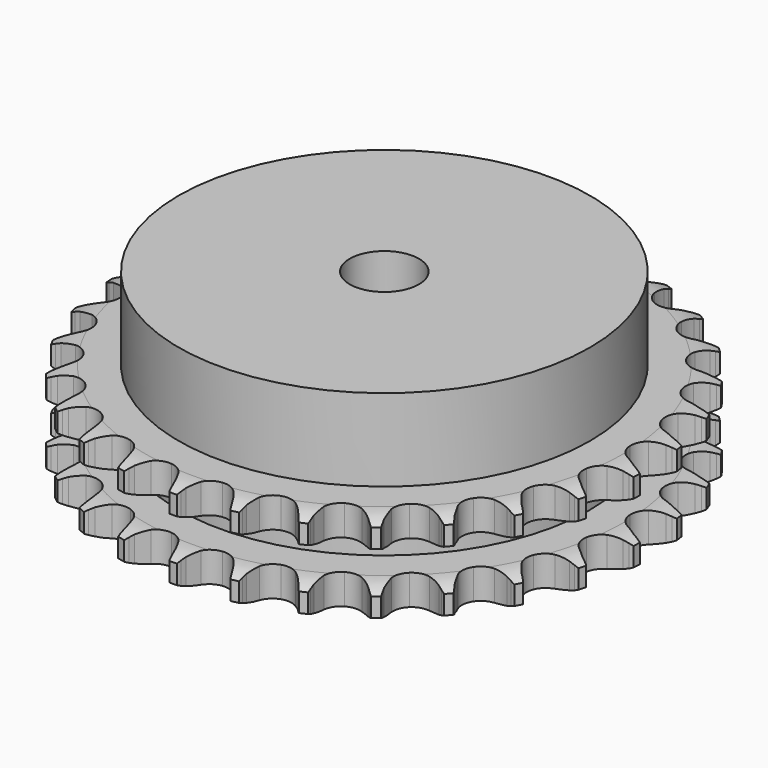
from build123d import *

# Parameters (mm, degrees)
PAD_DEPTH         = 21
SKETCH001_R       = 47.5
PAD001_DEPTH      = 40
SKETCH002_R       = 8
POCKET_DEPTH      = 0.001
POCKET_DEPTH_BACK = 40.001


with BuildPart() as part:
    # Sprocket → Pad (new body)
    with BuildSketch(Plane.XY):
        with BuildLine():
            ThreePointArc((-6.761019, 62.166543), (-5.956489, 61.115135), (-5.366296, 59.930062))
            Line((-5.366296, 59.930062), (-4.951457, 58.849368))
            ThreePointArc((-4.951457, 58.849368), (-4.292426, 57.437183), (-3.442485, 56.130972))
            ThreePointArc((-3.442485, 56.130972), (-1.922741, 54.869332), (0, 54.417198))
            ThreePointArc((0, 54.417198), (1.922741, 54.869332), (3.442485, 56.130972))
            ThreePointArc((3.442485, 56.130972), (4.292426, 57.437183), (4.951457, 58.849368))
            Line((4.951457, 58.849368), (5.366296, 59.930062))
            ThreePointArc((5.366296, 59.930062), (5.956489, 61.115135), (6.761019, 62.166543))
            ThreePointArc((6.761019, 62.166543), (7.320718, 60.966766), (7.642357, 59.682525))
            Line((7.642357, 59.682525), (7.81518, 58.53792))
            ThreePointArc((7.81518, 58.53792), (8.155225, 57.017078), (8.704498, 55.558693))
            ThreePointArc((8.704498, 55.558693), (9.917497, 53.99985), (11.698089, 53.144954))
            ThreePointArc((11.698089, 53.144954), (13.673073, 53.173186), (15.428502, 54.078628))
            Line((15.428502, 54.078628), (17.486569, 56.409086))
            ThreePointArc((17.486569, 56.409086), (17.792719, 56.900509), (18.124027, 57.375335))
            ThreePointArc((18.124027, 57.375335), (18.955177, 58.405828), (19.966919, 59.259704))
            ThreePointArc((19.966919, 59.259704), (20.255616, 57.967659), (20.293661, 56.6443))
            Line((20.293661, 56.6443), (20.216388, 55.489303))
            ThreePointArc((20.216388, 55.489303), (20.221546, 53.930919), (20.444468, 52.388552))
            ThreePointArc((20.444468, 52.388552), (21.294003, 50.605395), (22.849188, 49.387711))
            ThreePointArc((22.849188, 49.387711), (24.784067, 48.99072), (26.693098, 49.497628))
            Line((26.693098, 49.497628), (29.204029, 51.331177))
            ThreePointArc((29.204029, 51.331177), (29.608662, 51.745298), (30.034298, 52.137802))
            ThreePointArc((30.034298, 52.137802), (31.067542, 52.96553), (32.239188, 53.581948))
            ThreePointArc((32.239188, 53.581948), (32.243384, 52.258049), (31.996057, 50.95745))
            Line((31.996057, 50.95745), (31.6723, 49.846068))
            ThreePointArc((31.6723, 49.846068), (31.342331, 48.323009), (31.228478, 46.768781))
            ThreePointArc((31.228478, 46.768781), (31.674825, 44.844688), (32.931885, 43.321154))
            ThreePointArc((32.931885, 43.321154), (34.736186, 42.517502), (36.709555, 42.602174))
            Line((36.709555, 42.602174), (39.555941, 43.85308))
            ThreePointArc((39.555941, 43.85308), (40.040138, 44.170535), (40.540199, 44.462363))
            ThreePointArc((40.540199, 44.462363), (41.727223, 45.048622), (43.003989, 45.398759))
            ThreePointArc((43.003989, 45.398759), (42.723488, 44.10491), (42.202353, 42.887887))
            Line((42.202353, 42.887887), (41.64725, 41.872086))
            ThreePointArc((41.64725, 41.872086), (40.997583, 40.455569), (40.552279, 38.962153))
            ThreePointArc((40.552279, 38.962153), (40.574567, 36.987093), (41.474723, 35.228948))
            ThreePointArc((41.474723, 35.228948), (43.064079, 34.056213), (45.009514, 33.714689))
            Line((45.009514, 33.714689), (48.058261, 34.324462))
            ThreePointArc((48.058261, 34.324462), (48.599381, 34.530406), (49.150485, 34.707913))
            ThreePointArc((49.150485, 34.707913), (50.435786, 35.02529), (51.757971, 35.092775))
            ThreePointArc((51.757971, 35.092775), (51.205888, 33.889475), (50.435313, 32.812934))
            Line((50.435313, 32.812934), (49.674822, 31.940212))
            ThreePointArc((49.674822, 31.940212), (48.735834, 30.696472), (47.9799, 29.333698))
            ThreePointArc((47.9799, 29.333698), (47.577088, 27.400023), (48.07825, 25.489475))
            ThreePointArc((48.07825, 25.489475), (49.378344, 24.002494), (51.204879, 23.250744))
            Line((51.204879, 23.250744), (54.31343, 23.190869))
            ThreePointArc((54.31343, 23.190869), (54.886171, 23.275674), (55.46255, 23.33056))
            ThreePointArc((55.46255, 23.33056), (56.786028, 23.364215), (58.091808, 23.145892))
            ThreePointArc((58.091808, 23.145892), (57.293958, 22.089405), (56.309974, 21.203684))
            Line((56.309974, 21.203684), (55.379653, 20.51485))
            ThreePointArc((55.379653, 20.51485), (54.195252, 19.502042), (53.164035, 18.333632))
            ThreePointArc((53.164035, 18.333632), (52.354957, 16.531758), (52.433691, 14.558143))
            ThreePointArc((52.433691, 14.558143), (53.383732, 12.826445), (55.00596, 11.699619))
            Line((55.00596, 11.699619), (58.028963, 10.972898))
            ThreePointArc((58.028963, 10.972898), (58.606545, 10.932597), (59.181247, 10.862295))
            ThreePointArc((59.181247, 10.862295), (60.481017, 10.610656), (61.709336, 10.116732))
            ThreePointArc((61.709336, 10.116732), (60.703027, 9.25646), (59.551644, 8.602974))
            Line((59.551644, 8.602974), (58.494994, 8.130235))
            ThreePointArc((58.494994, 8.130235), (57.120559, 7.395718), (55.862278, 6.476306))
            ThreePointArc((55.862278, 6.476306), (54.684767, 4.890487), (54.33739, 2.946088))
            ThreePointArc((54.33739, 2.946088), (54.892957, 1.050645), (56.235023, -0.398567))
            Line((56.235023, -0.398567), (59.031127, -1.758154))
            ThreePointArc((59.031127, -1.758154), (59.586542, -1.921675), (60.132694, -2.113878))
            ThreePointArc((60.132694, -2.113878), (61.347982, -2.639046), (62.441404, -3.385475))
            ThreePointArc((62.441404, -3.385475), (61.273689, -4.009307), (60.008744, -4.400002))
            Line((60.008744, -4.400002), (58.875174, -4.63454))
            ThreePointArc((58.875174, -4.63454), (57.374973, -5.056422), (55.948464, -5.683845))
            ThreePointArc((55.948464, -5.683845), (54.457577, -6.979459), (53.700334, -8.803723))
            ThreePointArc((53.700334, -8.803723), (53.835448, -10.774282), (54.834599, -12.478116))
            Line((54.834599, -12.478116), (57.273061, -14.406997))
            ThreePointArc((57.273061, -14.406997), (57.780338, -14.686093), (58.272404, -14.991208))
            ThreePointArc((58.272404, -14.991208), (59.346384, -15.76535), (60.253782, -16.72938))
            ThreePointArc((60.253782, -16.72938), (58.979261, -17.087604), (57.659903, -17.197238))
            Line((57.659903, -17.197238), (56.502416, -17.182609))
            ThreePointArc((56.502416, -17.182609), (54.946597, -17.272129), (53.418561, -17.578226))
            ThreePointArc((53.418561, -17.578226), (51.684012, -18.523052), (50.55231, -20.141881))
            ThreePointArc((50.55231, -20.141881), (50.260653, -22.095415), (50.870171, -23.974203))
            Line((50.870171, -23.974203), (52.83697, -26.382185))
            ThreePointArc((52.83697, -26.382185), (53.27239, -26.763805), (53.687361, -27.167566))
            ThreePointArc((53.687361, -27.167566), (54.569814, -28.154483), (55.24876, -29.291039))
            ThreePointArc((55.24876, -29.291039), (53.927029, -29.366903), (52.614949, -29.190351))
            Line((52.614949, -29.190351), (51.487668, -28.927238))
            ThreePointArc((51.487668, -28.927238), (49.948979, -28.68021), (48.390866, -28.650668))
            ThreePointArc((48.390866, -28.650668), (46.49376, -29.200528), (45.040516, -30.538228))
            ThreePointArc((45.040516, -30.538228), (44.335726, -32.383391), (44.527109, -34.349282))
            Line((44.527109, -34.349282), (45.930281, -37.12377))
            ThreePointArc((45.930281, -37.12377), (46.273484, -37.590071), (46.591957, -38.0736))
            ThreePointArc((46.591957, -38.0736), (47.24162, -39.227144), (47.660367, -40.483081))
            ThreePointArc((47.660367, -40.483081), (46.353229, -40.273038), (45.109778, -39.818556))
            Line((45.109778, -39.818556), (44.065414, -39.319262))
            ThreePointArc((44.065414, -39.319262), (42.615802, -38.747237), (41.100468, -38.383437))
            ThreePointArc((41.100468, -38.383437), (39.129511, -38.51262), (37.422677, -39.50664))
            ThreePointArc((37.422677, -39.50664), (36.337709, -41.157156), (36.10201, -43.118228))
            Line((36.10201, -43.118228), (36.875944, -46.12949))
            ThreePointArc((36.875944, -46.12949), (37.110882, -46.658667), (37.317964, -47.199353))
            ThreePointArc((37.317964, -47.199353), (37.704461, -48.465587), (37.843428, -49.782179))
            ThreePointArc((37.843428, -49.782179), (36.612004, -49.296051), (35.495324, -48.584889))
            Line((35.495324, -48.584889), (34.58271, -47.872761))
            ThreePointArc((34.58271, -47.872761), (33.289958, -47.002485), (31.888257, -46.321439))
            ThreePointArc((31.888257, -46.321439), (29.93561, -46.023905), (28.054996, -46.627766))
            ThreePointArc((28.054996, -46.627766), (26.640582, -48.006458), (25.988821, -49.871012))
            Line((25.988821, -49.871012), (26.097328, -52.978246))
            ThreePointArc((26.097328, -52.978246), (26.213016, -53.545556), (26.299025, -54.118118))
            ThreePointArc((26.299025, -54.118118), (26.404283, -55.437833), (26.256973, -56.753518))
            ThreePointArc((26.256973, -56.753518), (25.158842, -56.014036), (24.221148, -55.079446))
            Line((24.221148, -55.079446), (23.482957, -54.187783))
            ThreePointArc((23.482957, -54.187783), (22.407512, -53.05995), (21.184987, -52.093502))
            ThreePointArc((21.184987, -52.093502), (19.341953, -51.383163), (17.375495, -51.56863))
            ThreePointArc((17.375495, -51.56863), (15.697771, -52.611031), (14.660423, -54.291884))
            Line((14.660423, -54.291884), (14.09843, -57.349798))
            ThreePointArc((14.09843, -57.349798), (14.089458, -57.928714), (14.050373, -58.50638))
            ThreePointArc((14.050373, -58.50638), (13.869471, -59.817868), (13.442771, -61.071125))
            ThreePointArc((13.442771, -61.071125), (12.52928, -60.112866), (11.814418, -58.99855))
            Line((11.814418, -58.99855), (11.285167, -57.969044))
            ThreePointArc((11.285167, -57.969044), (10.477316, -56.636391), (9.491131, -55.429731))
            ThreePointArc((9.491131, -55.429731), (7.843888, -54.339801), (5.883534, -54.098202))
            ThreePointArc((5.883534, -54.098202), (4.020949, -54.755571), (2.64652, -56.174128))
            Line((2.64652, -56.174128), (1.440305, -59.039737))
            ThreePointArc((1.440305, -59.039737), (1.307093, -59.60319), (1.144741, -60.158948))
            ThreePointArc((1.144741, -60.158948), (0.686137, -61.400885), (0, -62.533114))
            ThreePointArc((0, -62.533114), (-0.686137, -61.400885), (-1.144741, -60.158948))
            Line((-1.144741, -60.158948), (-1.440305, -59.039737))
            ThreePointArc((-1.440305, -59.039737), (-1.942788, -57.564577), (-2.64652, -56.174128))
            ThreePointArc((-2.64652, -56.174128), (-4.020949, -54.755571), (-5.883534, -54.098202))
            ThreePointArc((-5.883534, -54.098202), (-7.843888, -54.339801), (-9.491131, -55.429731))
            Line((-9.491131, -55.429731), (-11.285167, -57.969044))
            ThreePointArc((-11.285167, -57.969044), (-11.53639, -58.490687), (-11.814418, -58.99855))
            ThreePointArc((-11.814418, -58.99855), (-12.52928, -60.112866), (-13.442771, -61.071125))
            ThreePointArc((-13.442771, -61.071125), (-13.869471, -59.817868), (-14.050373, -58.50638))
            Line((-14.050373, -58.50638), (-14.09843, -57.349798))
            ThreePointArc((-14.09843, -57.349798), (-14.272049, -55.801107), (-14.660423, -54.291884))
            ThreePointArc((-14.660423, -54.291884), (-15.697771, -52.611031), (-17.375495, -51.56863))
            ThreePointArc((-17.375495, -51.56863), (-19.341953, -51.383163), (-21.184987, -52.093502))
            Line((-21.184987, -52.093502), (-23.482957, -54.187783))
            ThreePointArc((-23.482957, -54.187783), (-23.840444, -54.643225), (-24.221148, -55.079446))
            ThreePointArc((-24.221148, -55.079446), (-25.158842, -56.014036), (-26.256973, -56.753518))
            ThreePointArc((-26.256973, -56.753518), (-26.404283, -55.437833), (-26.299025, -54.118118))
            Line((-26.299025, -54.118118), (-26.097328, -52.978246))
            ThreePointArc((-26.097328, -52.978246), (-25.933965, -51.428439), (-25.988821, -49.871012))
            ThreePointArc((-25.988821, -49.871012), (-26.640582, -48.006458), (-28.054996, -46.627766))
            ThreePointArc((-28.054996, -46.627766), (-29.93561, -46.023905), (-31.888257, -46.321439))
            Line((-31.888257, -46.321439), (-34.58271, -47.872761))
            ThreePointArc((-34.58271, -47.872761), (-35.029746, -48.240706), (-35.495324, -48.584889))
            ThreePointArc((-35.495324, -48.584889), (-36.612004, -49.296051), (-37.843428, -49.782179))
            ThreePointArc((-37.843428, -49.782179), (-37.704461, -48.465587), (-37.317964, -47.199353))
            Line((-37.317964, -47.199353), (-36.875944, -46.12949))
            ThreePointArc((-36.875944, -46.12949), (-36.383237, -44.651035), (-36.10201, -43.118228))
            ThreePointArc((-36.10201, -43.118228), (-36.337709, -41.157156), (-37.422677, -39.50664))
            ThreePointArc((-37.422677, -39.50664), (-39.129511, -38.51262), (-41.100468, -38.383437))
            Line((-41.100468, -38.383437), (-44.065414, -39.319262))
            ThreePointArc((-44.065414, -39.319262), (-44.581096, -39.582505), (-45.109778, -39.818556))
            ThreePointArc((-45.109778, -39.818556), (-46.353229, -40.273038), (-47.660367, -40.483081))
            ThreePointArc((-47.660367, -40.483081), (-47.24162, -39.227144), (-46.591957, -38.0736))
            Line((-46.591957, -38.0736), (-45.930281, -37.12377))
            ThreePointArc((-45.930281, -37.12377), (-45.13127, -35.785798), (-44.527109, -34.349282))
            ThreePointArc((-44.527109, -34.349282), (-44.335726, -32.383391), (-45.040516, -30.538228))
            ThreePointArc((-45.040516, -30.538228), (-46.49376, -29.200528), (-48.390866, -28.650668))
            Line((-48.390866, -28.650668), (-51.487668, -28.927238))
            ThreePointArc((-51.487668, -28.927238), (-52.047883, -29.07347), (-52.614949, -29.190351))
            ThreePointArc((-52.614949, -29.190351), (-53.927029, -29.366903), (-55.24876, -29.291039))
            ThreePointArc((-55.24876, -29.291039), (-54.569814, -28.154483), (-53.687361, -27.167566))
            Line((-53.687361, -27.167566), (-52.83697, -26.382185))
            ThreePointArc((-52.83697, -26.382185), (-51.769015, -25.247257), (-50.870171, -23.974203))
            ThreePointArc((-50.870171, -23.974203), (-50.260653, -22.095415), (-50.55231, -20.141881))
            ThreePointArc((-50.55231, -20.141881), (-51.684012, -18.523052), (-53.418561, -17.578226))
            Line((-53.418561, -17.578226), (-56.502416, -17.182609))
            ThreePointArc((-56.502416, -17.182609), (-57.080969, -17.204992), (-57.659903, -17.197238))
            ThreePointArc((-57.659903, -17.197238), (-58.979261, -17.087604), (-60.253782, -16.72938))
            ThreePointArc((-60.253782, -16.72938), (-59.346384, -15.76535), (-58.272404, -14.991208))
            Line((-58.272404, -14.991208), (-57.273061, -14.406997))
            ThreePointArc((-57.273061, -14.406997), (-55.986098, -13.528182), (-54.834599, -12.478116))
            ThreePointArc((-54.834599, -12.478116), (-53.835448, -10.774282), (-53.700334, -8.803723))
            ThreePointArc((-53.700334, -8.803723), (-54.457577, -6.979459), (-55.948464, -5.683845))
            Line((-55.948464, -5.683845), (-58.875174, -4.63454))
            ThreePointArc((-58.875174, -4.63454), (-59.445013, -4.532028), (-60.008744, -4.400002))
            ThreePointArc((-60.008744, -4.400002), (-61.273689, -4.009307), (-62.441404, -3.385475))
            ThreePointArc((-62.441404, -3.385475), (-61.347982, -2.639046), (-60.132694, -2.113878))
            Line((-60.132694, -2.113878), (-59.031127, -1.758154))
            ThreePointArc((-59.031127, -1.758154), (-57.585334, -1.176545), (-56.235023, -0.398567))
            ThreePointArc((-56.235023, -0.398567), (-54.892957, 1.050645), (-54.33739, 2.946088))
            ThreePointArc((-54.33739, 2.946088), (-54.684767, 4.890487), (-55.862278, 6.476306))
            Line((-55.862278, 6.476306), (-58.494994, 8.130235))
            ThreePointArc((-58.494994, 8.130235), (-59.029473, 8.352849), (-59.551644, 8.602974))
            ThreePointArc((-59.551644, 8.602974), (-60.703027, 9.25646), (-61.709336, 10.116732))
            ThreePointArc((-61.709336, 10.116732), (-60.481017, 10.610656), (-59.181247, 10.862295))
            Line((-59.181247, 10.862295), (-58.028963, 10.972898))
            ThreePointArc((-58.028963, 10.972898), (-56.491943, 11.230107), (-55.00596, 11.699619))
            ThreePointArc((-55.00596, 11.699619), (-53.383732, 12.826445), (-52.433691, 14.558143))
            ThreePointArc((-52.433691, 14.558143), (-52.354957, 16.531758), (-53.164035, 18.333632))
            Line((-53.164035, 18.333632), (-55.379653, 20.51485))
            ThreePointArc((-55.379653, 20.51485), (-55.853781, 20.847156), (-56.309974, 21.203684))
            ThreePointArc((-56.309974, 21.203684), (-57.293958, 22.089405), (-58.091808, 23.145892))
            ThreePointArc((-58.091808, 23.145892), (-56.786028, 23.364215), (-55.46255, 23.33056))
            Line((-55.46255, 23.33056), (-54.31343, 23.190869))
            ThreePointArc((-54.31343, 23.190869), (-52.757052, 23.111651), (-51.204879, 23.250744))
            ThreePointArc((-51.204879, 23.250744), (-49.378344, 24.002494), (-48.07825, 25.489475))
            ThreePointArc((-48.07825, 25.489475), (-47.577088, 27.400023), (-47.9799, 29.333698))
            Line((-47.9799, 29.333698), (-49.674822, 31.940212))
            ThreePointArc((-49.674822, 31.940212), (-50.066429, 32.366673), (-50.435313, 32.812934))
            ThreePointArc((-50.435313, 32.812934), (-51.205888, 33.889475), (-51.757971, 35.092775))
            ThreePointArc((-51.757971, 35.092775), (-50.435786, 35.02529), (-49.150485, 34.707913))
            Line((-49.150485, 34.707913), (-48.058261, 34.324462))
            ThreePointArc((-48.058261, 34.324462), (-46.555299, 33.91252), (-45.009514, 33.714689))
            ThreePointArc((-45.009514, 33.714689), (-43.064079, 34.056213), (-41.474723, 35.228948))
            ThreePointArc((-41.474723, 35.228948), (-40.574567, 36.987093), (-40.552279, 38.962153))
            Line((-40.552279, 38.962153), (-41.64725, 41.872086))
            ThreePointArc((-41.64725, 41.872086), (-41.938026, 42.37276), (-42.202353, 42.887887))
            ThreePointArc((-42.202353, 42.887887), (-42.723488, 44.10491), (-43.003989, 45.398759))
            ThreePointArc((-43.003989, 45.398759), (-41.727223, 45.048622), (-40.540199, 44.462363))
            Line((-40.540199, 44.462363), (-39.555941, 43.85308))
            ThreePointArc((-39.555941, 43.85308), (-38.176673, 43.127677), (-36.709555, 42.602174))
            ThreePointArc((-36.709555, 42.602174), (-34.736186, 42.517502), (-32.931885, 43.321154))
            ThreePointArc((-32.931885, 43.321154), (-31.674825, 44.844688), (-31.228478, 46.768781))
            Line((-31.228478, 46.768781), (-31.6723, 49.846068))
            ThreePointArc((-31.6723, 49.846068), (-31.848647, 50.397544), (-31.996057, 50.95745))
            ThreePointArc((-31.996057, 50.95745), (-32.243384, 52.258049), (-32.239188, 53.581948))
            ThreePointArc((-32.239188, 53.581948), (-31.067542, 52.96553), (-30.034298, 52.137802))
            Line((-30.034298, 52.137802), (-29.204029, 51.331177))
            ThreePointArc((-29.204029, 51.331177), (-28.012948, 50.326232), (-26.693098, 49.497628))
            ThreePointArc((-26.693098, 49.497628), (-24.784067, 48.99072), (-22.849188, 49.387711))
            ThreePointArc((-22.849188, 49.387711), (-21.294003, 50.605395), (-20.444468, 52.388552))
            Line((-20.444468, 52.388552), (-20.216388, 55.489303))
            ThreePointArc((-20.216388, 55.489303), (-20.270061, 56.065795), (-20.293661, 56.6443))
            ThreePointArc((-20.293661, 56.6443), (-20.255616, 57.967659), (-19.966919, 59.259704))
            ThreePointArc((-19.966919, 59.259704), (-18.955177, 58.405828), (-18.124027, 57.375335))
            Line((-18.124027, 57.375335), (-17.486569, 56.409086))
            ThreePointArc((-17.486569, 56.409086), (-16.539368, 55.171589), (-15.428502, 54.078628))
            ThreePointArc((-15.428502, 54.078628), (-13.673073, 53.173186), (-11.698089, 53.144954))
            ThreePointArc((-11.698089, 53.144954), (-9.917497, 53.99985), (-8.704498, 55.558693))
            Line((-8.704498, 55.558693), (-7.81518, 58.53792))
            ThreePointArc((-7.81518, 58.53792), (-7.743669, 59.112472), (-7.642357, 59.682525))
            ThreePointArc((-7.642357, 59.682525), (-7.320718, 60.966766), (-6.761019, 62.166543))
        make_face()
    extrude(amount=PAD_DEPTH)

    # Sketch → Groove (revolve, cut)
    with BuildSketch(Plane.XZ):
        with BuildLine():
            ThreePointArc((55.333431, 0), (58.24032, 0.329167), (61, 1.3))
            Line((61, 1.3), (61, 5.7))
            ThreePointArc((61, 5.7), (58.24032, 6.670833), (55.333431, 7))
            Line((47.5, 7), (55.333431, 7))
            Line((47.5, 14), (47.5, 7))
            Line((55.333431, 14), (47.5, 14))
            ThreePointArc((55.333431, 14), (58.24032, 14.329167), (61, 15.3))
            Line((61, 15.3), (61, 19.7))
            ThreePointArc((61, 19.7), (58.24032, 20.670833), (55.333431, 21))
            Line((55.333431, 21), (65.333431, 21))
            Line((65.333431, 21), (65.333431, 0))
            Line((55.333431, 0), (65.333431, 0))
        make_face()
    revolve(axis=Axis((0, 0, 0), (0, 0, 1)), mode=Mode.SUBTRACT)

    # Sketch001 → Pad001 (join)
    with BuildSketch(Plane.XY):
        Circle(SKETCH001_R)
    extrude(amount=PAD001_DEPTH)

    # Sketch002 → Pocket (cut, two sides)
    with BuildSketch(Plane.XY) as pocket_sk:
        Circle(SKETCH002_R)
    extrude(amount=-POCKET_DEPTH, mode=Mode.SUBTRACT)
    extrude(pocket_sk.sketch, amount=POCKET_DEPTH_BACK, mode=Mode.SUBTRACT)


solid = part.part
